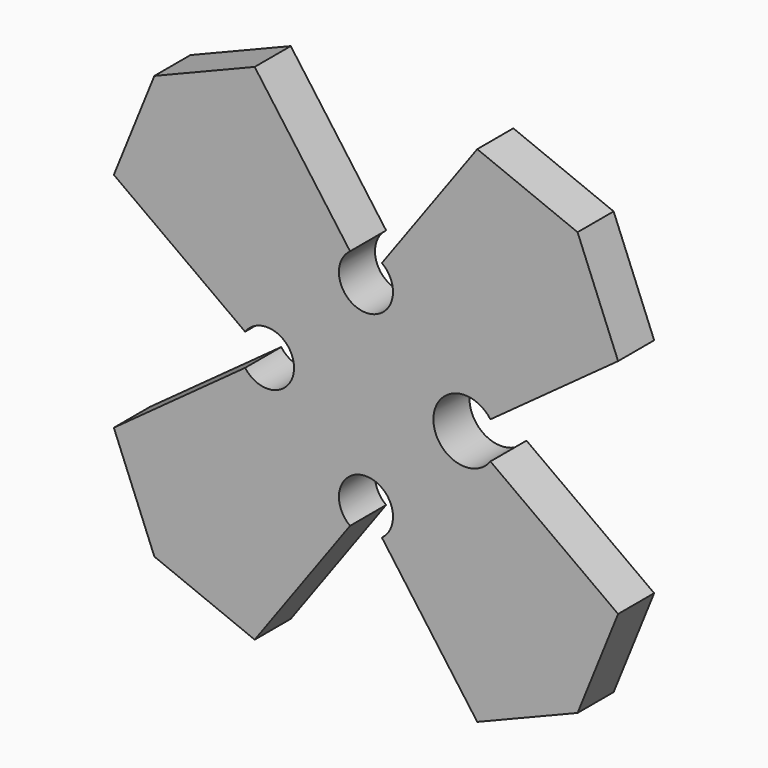
from build123d import *

# Parameters (mm, degrees)
F1_DEPTH = 127


with BuildPart() as f1:
    # F0 (on Front) → F1 (new body)
    with BuildSketch(Plane.XZ):
        with BuildLine():
            Line((710.605017, 282.605639), (824.785107, 0))
            Line((824.785107, 0), (1107.390746, -114.18009))
            Line((1107.390746, -114.18009), (1376.126163, 255.70248))
            ThreePointArc((1376.126163, 255.70248), (1420.915399, 393.549575), (1465.704636, 255.70248))
            Line((1465.704636, 255.70248), (1734.440053, -114.18009))
            Line((1734.440053, -114.18009), (2017.045692, 0))
            Line((2017.045692, 0), (2131.225781, 282.605639))
            Line((2131.225781, 282.605639), (1771.550655, 543.924914))
            ThreePointArc((1771.550655, 543.924914), (1610.879023, 596.130292), (1771.550655, 648.335671))
            Line((1771.550655, 648.335671), (2131.225781, 909.654946))
            Line((2131.225781, 909.654946), (2017.045692, 1192.260585))
            Line((2017.045692, 1192.260585), (1734.440053, 1306.440675))
            Line((1734.440053, 1306.440675), (1465.704636, 936.558105))
            ThreePointArc((1465.704636, 936.558105), (1420.915399, 798.71101), (1376.126163, 936.558105))
            Line((1376.126163, 936.558105), (1107.390746, 1306.440675))
            Line((1107.390746, 1306.440675), (824.785107, 1192.260585))
            Line((824.785107, 1192.260585), (710.605017, 909.654946))
            Line((710.605017, 909.654946), (1080.487587, 640.919529))
            ThreePointArc((1080.487587, 640.919529), (1218.334682, 596.130292), (1080.487587, 551.341056))
            Line((1080.487587, 551.341056), (710.605017, 282.605639))
        make_face()
    extrude(amount=F1_DEPTH)


solid = f1.part
